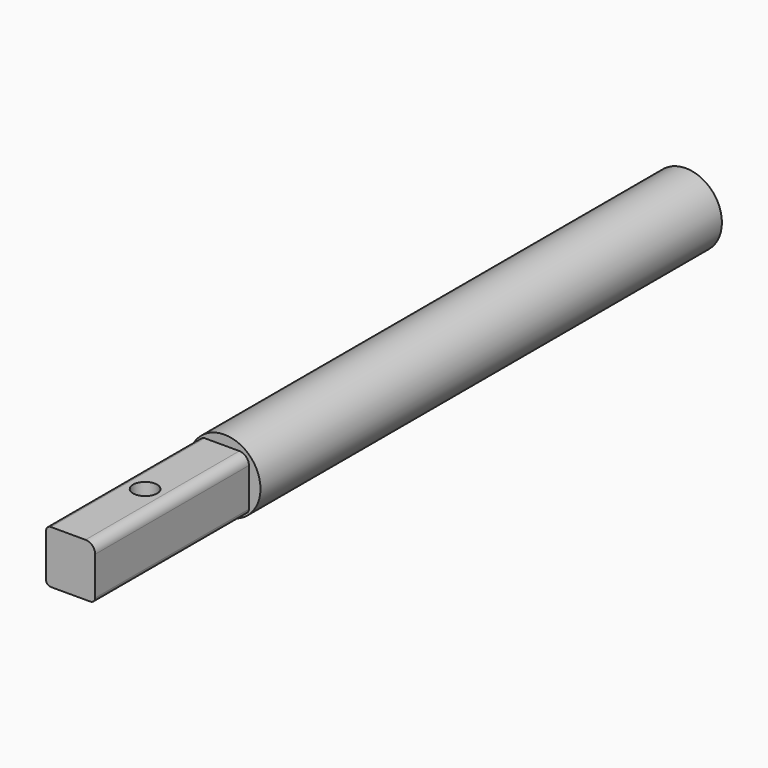
from build123d import *

# Parameters (mm, degrees)
F0_R     = 4.7625
F1_DEPTH = 101.6
F2_R     = 4.7625
F3_DEPTH = 25.4
F5_DEPTH = 2.54


with BuildPart() as f1:
    # F0 (on Front) → F1 (new body)
    with BuildSketch(Plane.XZ):
        Circle(F0_R)
    extrude(amount=F1_DEPTH)

    # F2 (on face) → F3 (cut)
    with BuildSketch(Plane.XZ.offset(101.6)):
        Circle(F2_R)
        with BuildLine():
            ThreePointArc((-3.239123, 2.856345), (-3.053136, 3.305358), (-2.604123, 3.491345))
            Line((-2.604123, 3.491345), (1.969123, 3.491345))
            ThreePointArc((1.969123, 3.491345), (2.867149, 3.11937), (3.239123, 2.221345))
            Line((3.239123, 2.221345), (3.239123, -2.856345))
            ThreePointArc((3.239123, -2.856345), (3.053136, -3.305358), (2.604123, -3.491345))
            Line((2.604123, -3.491345), (-2.604123, -3.491345))
            ThreePointArc((-2.604123, -3.491345), (-3.053136, -3.305358), (-3.239123, -2.856345))
            Line((-3.239123, -2.856345), (-3.239123, 2.856345))
        make_face(mode=Mode.SUBTRACT)
    extrude(amount=-F3_DEPTH, mode=Mode.SUBTRACT)

    # F4 (on face) → F5 (cut)
    with BuildSketch(Plane.XY.offset(3.491345)):
        with BuildLine():
            ThreePointArc((-0.3175, -90.4875), (0.805032, -90.022532), (1.27, -88.9))
            ThreePointArc((1.27, -88.9), (-1.440032, -87.777468), (-0.3175, -90.4875))
        make_face()
    extrude(amount=-F5_DEPTH, mode=Mode.SUBTRACT)


solid = f1.part
